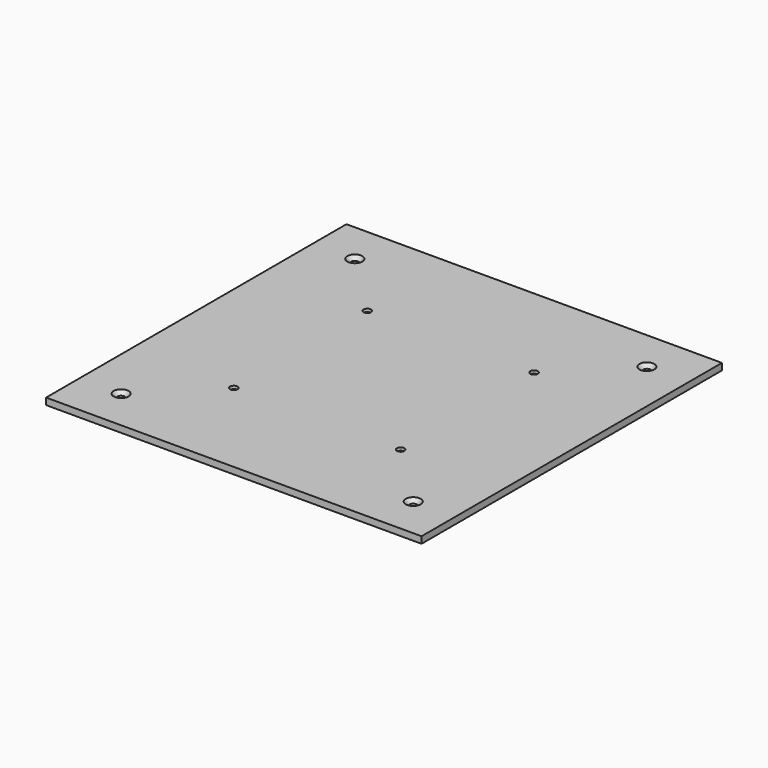
from build123d import *

# Parameters (mm, degrees)
F0_W           = 450
F0_H           = 450
F1_DEPTH       = 8
F3_D           = 9
F3_CSINK_D     = 17.92
F3_CSINK_ANGLE = 90
F5_D           = 9
F5_CSINK_D     = 17.92
F5_CSINK_ANGLE = 90


with BuildPart() as f1:
    # F0 (on Top) → F1 (new body)
    with BuildSketch(Plane.XY):
        with Locations((225, -225)):
            Rectangle(F0_W, F0_H)
    extrude(amount=F1_DEPTH)

    # F3 (through all)
    with Locations(Plane.XY.offset(8)):
        with Locations((50, -400), (400, -400), (400, -50), (50, -50)):
            CounterSinkHole(F3_D / 2, F3_CSINK_D / 2, counter_sink_angle=F3_CSINK_ANGLE)

    # F5 (through all)
    with Locations(Plane(origin=(0, 0, 0), x_dir=(1, 0, 0), z_dir=(0, 0, -1))):
        with Locations((125, 325), (325, 125), (325, 325), (125, 125)):
            CounterSinkHole(F5_D / 2, F5_CSINK_D / 2, counter_sink_angle=F5_CSINK_ANGLE)


solid = f1.part
